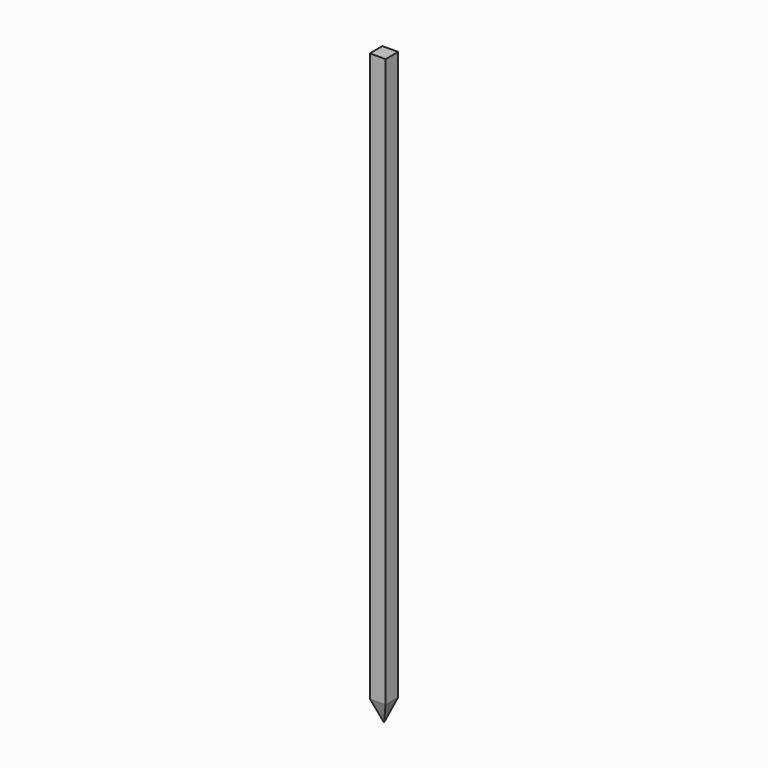
from build123d import *

# Parameters (mm, degrees)
F0_W     = 40
F0_H     = 40
F1_DEPTH = 1500
F2_SIZE2 = 19.290422
F2_SIZE  = 53


with BuildPart() as f1:
    # F0 (on Top) → F1 (new body)
    with BuildSketch(Plane.XY):
        Rectangle(F0_W, F0_H)
    extrude(amount=-F1_DEPTH)

    # F2
    f2_edges = [f1.edges().sort_by_distance(p)[0] for p in [
        (0, -20, -1500),
        (20, 0, -1500),
        (0, 20, -1500),
        (-20, 0, -1500),
    ]]
    chamfer(f2_edges, length=F2_SIZE, length2=F2_SIZE2)


solid = f1.part
